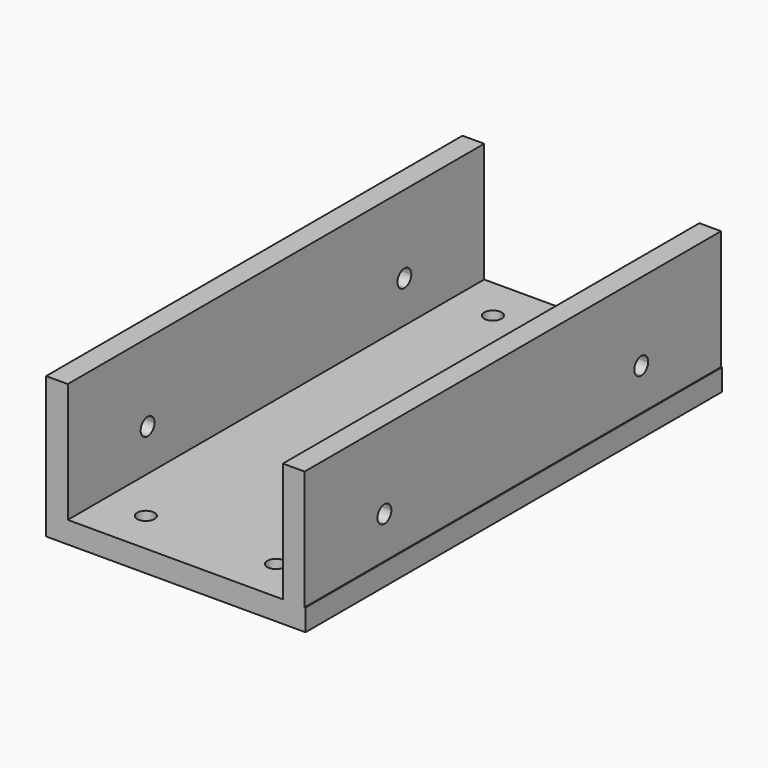
from build123d import *

# Parameters (mm, degrees)
F0_W          = 75.946
F0_H          = 152.4
F2_DEPTH      = 6.35
F1_W          = 6.35
F1_H          = 152.4
F3_DEPTH      = 35
F4_R          = 2.54
F5_DEPTH      = 41.351
F7_DEPTH      = 6.351
F7_DEPTH_BACK = 69.597


with BuildPart() as f2:
    # F0 (on Top) → F2 (new body)
    with BuildSketch(Plane.XY):
        with Locations((37.973, 76.2)):
            Rectangle(F0_W, F0_H)
    extrude(amount=-F2_DEPTH)

    # F1 (on face) → F3 (join)
    with BuildSketch(Plane.XY):
        with Locations((3.175, 76.2)):
            Rectangle(F1_W, F1_H)
        with Locations((72.517, 76.2)):
            Rectangle(F1_W, F1_H)
    extrude(amount=F3_DEPTH)

    # F4 (on face) → F5 (cut, through all)
    with BuildSketch(Plane(origin=(0, 0, -6.35), x_dir=(1, 0, 0), z_dir=(0, 0, -1))):
        with Locations((57.15, -12.7)):
            Circle(F4_R)
        with Locations((19.05, -12.7)):
            Circle(F4_R)
        with Locations((19.05, -139.7)):
            Circle(F4_R)
        with Locations((57.15, -139.7)):
            Circle(F4_R)
    extrude(amount=-F5_DEPTH, mode=Mode.SUBTRACT)

    # F6 (on face) → F7 (cut, two sides)
    with BuildSketch(Plane.YZ.offset(6.35)) as f7_sk:
        with BuildLine():
            ThreePointArc((31.75, 12.192), (27.4139487758, 13.9880512242), (29.21, 9.652))
            Line((29.21, 9.652), (29.21, 12.192))
            Line((29.21, 12.192), (31.75, 12.192))
        make_face()
        with BuildLine():
            ThreePointArc((125.73, 12.192), (123.19, 14.732), (120.65, 12.192))
            Line((120.65, 12.192), (123.19, 12.192))
            Line((123.19, 12.192), (123.19, 9.652))
            ThreePointArc((123.19, 9.652), (124.9860512242, 10.3959487758), (125.73, 12.192))
        make_face()
        with BuildLine():
            Line((123.19, 12.192), (120.65, 12.192))
            ThreePointArc((120.65, 12.192), (121.3939487758, 10.3959487758), (123.19, 9.652))
            Line((123.19, 9.652), (123.19, 12.192))
        make_face()
        with BuildLine():
            Line((29.21, 12.192), (29.21, 9.652))
            ThreePointArc((29.21, 9.652), (31.0060512242, 10.3959487758), (31.75, 12.192))
            Line((31.75, 12.192), (29.21, 12.192))
        make_face()
    extrude(amount=-F7_DEPTH, mode=Mode.SUBTRACT)
    extrude(f7_sk.sketch, amount=F7_DEPTH_BACK, mode=Mode.SUBTRACT)


solid = f2.part
